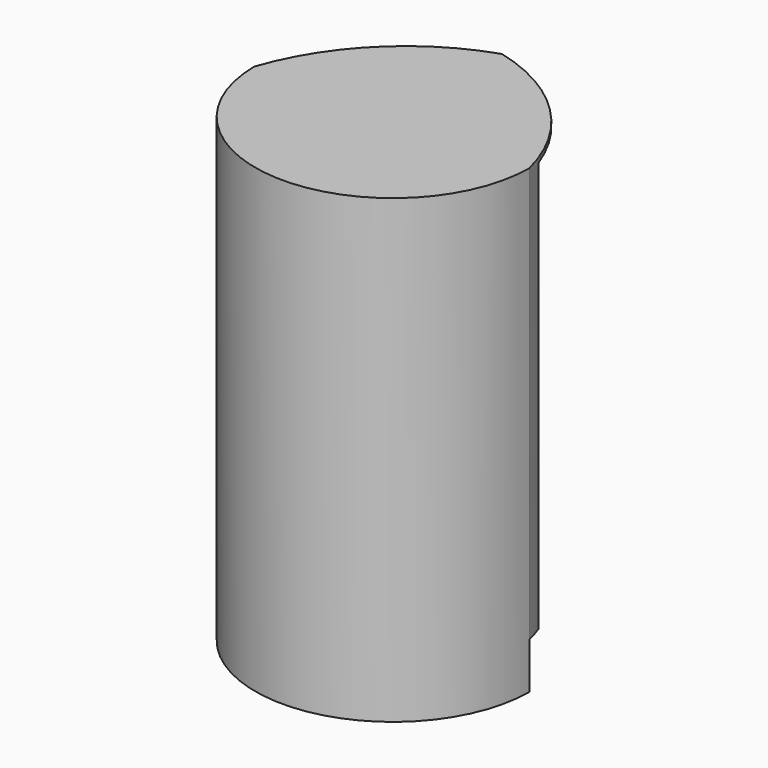
from build123d import *

# Parameters (mm, degrees)
F1_DEPTH = 254
F2_T     = -2.54
F4_DEPTH = 25.4


with BuildPart() as f1:
    # F0 (on Top) → F1 (new body)
    with BuildSketch(Plane.XY):
        with BuildLine():
            ThreePointArc((-0.185259, 75.771093), (-46.959517, 46.774258), (-75.956352, 0))
            ThreePointArc((-75.956352, 0), (-0.185259, -75.035728), (75.585835, 0))
            ThreePointArc((75.585835, 0), (48.21746, 48.402718), (-0.185259, 75.771093))
        make_face()
    extrude(amount=F1_DEPTH)

    # F2
    f2_openings = [f1.faces().sort_by_distance(p)[0] for p in [
        (-46.959517, 46.774258, 127),
        (48.21746, 48.402718, 127),
    ]]
    offset(amount=F2_T, openings=f2_openings)

    # F3 (on face) → F4 (cut)
    with BuildSketch(Plane(origin=(0, 0, 0), x_dir=(1, 0, 0), z_dir=(0, 0, -1))):
        with BuildLine():
            ThreePointArc((-0.185259, -75.771093), (48.21746, -48.402718), (75.585835, 0))
            Line((75.585835, 0), (0, 0))
            Line((0, 0), (-0.185259, -75.771093))
        make_face()
        with BuildLine():
            Line((-0.185259, -75.771093), (0, 0))
            Line((0, 0), (-75.956352, 0))
            ThreePointArc((-75.956352, 0), (-46.959517, -46.774258), (-0.185259, -75.771093))
        make_face()
    extrude(amount=-F4_DEPTH, mode=Mode.SUBTRACT)


solid = f1.part
